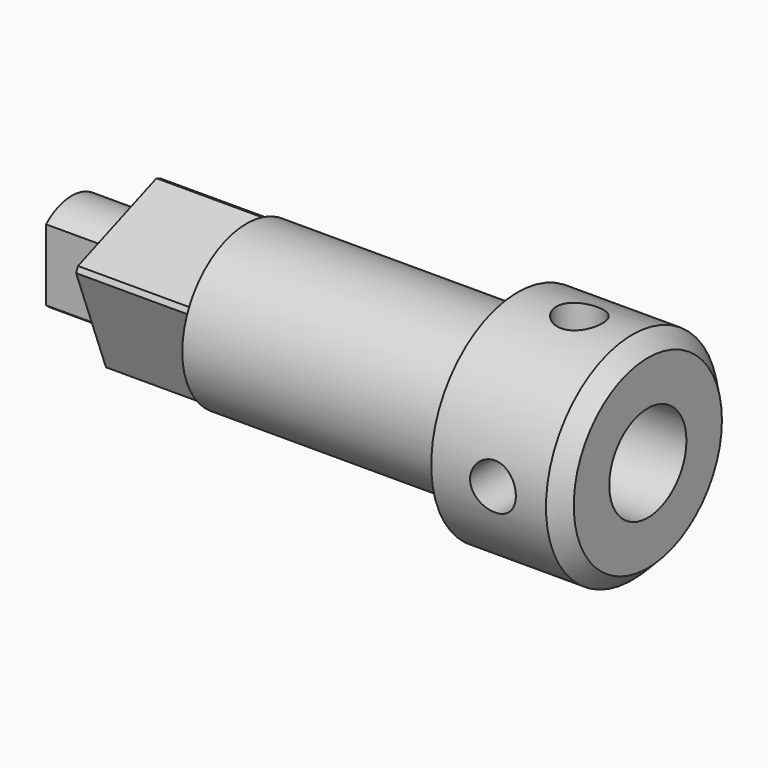
from build123d import *

# Parameters (mm, degrees)
F0_R      = 5.334
F1_DEPTH  = 6.4262
F2_R      = 3.9624
F3_DEPTH  = 13.3858
F5_DEPTH  = 5.588
F7_DEPTH  = 3.048
F8_SIZE2  = 0.762
F8_SIZE   = 0.762
F9_R      = 2.38125
F10_DEPTH = 7.874
F13_D     = 2.2606
F13_DEPTH = 6.477
F13_START = 0.1211335
F13_TIP   = 0.6791527577
F16_D     = 2.2606
F16_DEPTH = 6.477
F16_START = 0.1211335
F16_TIP   = 0.6791527577


with BuildPart() as f1:
    # F0 (on Right) → F1 (new body)
    with BuildSketch(Plane.YZ):
        Circle(F0_R)
    extrude(amount=-F1_DEPTH)

    # F2 (on face) → F3 (join)
    with BuildSketch(Plane(origin=(-6.4262, 0, 0), x_dir=(0, -1, 0), z_dir=(-1, 0, 0))):
        Circle(F2_R)
    extrude(amount=F3_DEPTH)

    # F4 (on face) → F5 (join)
    with BuildSketch(Plane(origin=(-19.812, 0, 0), x_dir=(0, -1, 0), z_dir=(-1, 0, 0))):
        with BuildLine():
            Line((3.4148820894, 1.6895799227), (-1.4267371035, 3.5327781189))
            ThreePointArc((-1.4267371035, 3.5327781189), (-1.5592731706, 3.4763151726), (-1.6895799227, 3.4148820894))
            Line((-1.6895799227, 3.4148820894), (-3.5327781189, -1.4267371035))
            ThreePointArc((-3.5327781189, -1.4267371035), (-3.4763151726, -1.5592731706), (-3.4148820894, -1.6895799227))
            Line((-3.4148820894, -1.6895799227), (1.4267371035, -3.5327781189))
            ThreePointArc((1.4267371035, -3.5327781189), (1.5592731706, -3.4763151726), (1.6895799227, -3.4148820894))
            Line((1.6895799227, -3.4148820894), (3.5327781189, 1.4267371035))
            ThreePointArc((3.5327781189, 1.4267371035), (3.4763151726, 1.5592731706), (3.4148820894, 1.6895799227))
        make_face()
    extrude(amount=F5_DEPTH)

    # F6 (on face) → F7 (join)
    with BuildSketch(Plane(origin=(-25.4, 0, 0), x_dir=(0, -1, 0), z_dir=(-1, 0, 0))):
        with BuildLine():
            Line((1.5748, -1.7606799255), (1.5748, 1.7606799255))
            ThreePointArc((1.5748, 1.7606799255), (-2.3622, 0), (1.5748, -1.7606799255))
        make_face()
    extrude(amount=F7_DEPTH)

    # F8
    f8_edges = [f1.edges().sort_by_distance(p)[0] for p in [
        (0, -5.334, 0),
    ]]
    chamfer(f8_edges, length=F8_SIZE, length2=F8_SIZE2)

    # F9 (on face) → F10 (cut)
    with BuildSketch(Plane.YZ):
        Circle(F9_R)
    extrude(amount=-F10_DEPTH, mode=Mode.SUBTRACT)

    # F13
    # its depths count from where the whole tool has entered the part; down to there all is cleared
    with Locations(Plane.XZ.offset(5.334).offset(-F13_START)):
        with Locations((-3.3782, 0)):
            Hole(F13_D / 2, depth=F13_DEPTH)
            with Locations((0, 0, -(F13_DEPTH + F13_TIP / 2))):  # 118° drill point
                Cone(0, F13_D / 2, F13_TIP, mode=Mode.SUBTRACT)

    # F16
    # its depths count from where the whole tool has entered the part; down to there all is cleared
    with Locations(Plane.XY.offset(5.334).offset(-F16_START)):
        with Locations((-3.3782, 0)):
            Hole(F16_D / 2, depth=F16_DEPTH)
            with Locations((0, 0, -(F16_DEPTH + F16_TIP / 2))):  # 118° drill point
                Cone(0, F16_D / 2, F16_TIP, mode=Mode.SUBTRACT)


solid = f1.part
